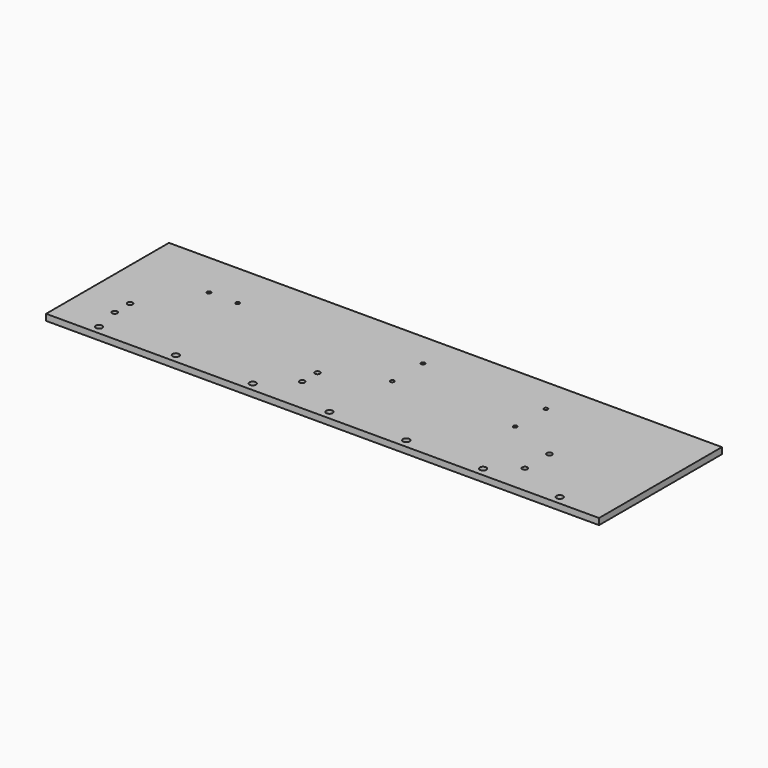
from build123d import *

# Parameters (mm, degrees)
F0_W     = 720
F0_H     = 200
F0_R     = 4.25
F0_R_2   = 3.4
F0_R_3   = 2.5
F1_DEPTH = 8.2


with BuildPart() as f1:
    # F0 (on Top) → F1 (new body)
    with BuildSketch(Plane.XY):
        with Locations((360, 100)):
            Rectangle(F0_W, F0_H)
        with Locations((60, 11.25)):
            Circle(F0_R, mode=Mode.SUBTRACT)
        with Locations((160, 11.25)):
            Circle(F0_R, mode=Mode.SUBTRACT)
        with Locations((52.6, 46)):
            Circle(F0_R_2, mode=Mode.SUBTRACT)
        with Locations((260, 11.25)):
            Circle(F0_R, mode=Mode.SUBTRACT)
        with Locations((296.6, 46)):
            Circle(F0_R_2, mode=Mode.SUBTRACT)
        with Locations((52.6, 71)):
            Circle(F0_R_2, mode=Mode.SUBTRACT)
        with Locations((296.6, 71)):
            Circle(F0_R_2, mode=Mode.SUBTRACT)
        with Locations((360, 11.25)):
            Circle(F0_R, mode=Mode.SUBTRACT)
        with Locations((460, 11.25)):
            Circle(F0_R, mode=Mode.SUBTRACT)
        with Locations((560, 11.25)):
            Circle(F0_R, mode=Mode.SUBTRACT)
        with Locations((660, 11.25)):
            Circle(F0_R, mode=Mode.SUBTRACT)
        with Locations((592.6, 38.5)):
            Circle(F0_R_2, mode=Mode.SUBTRACT)
        with Locations((592.6, 78.5)):
            Circle(F0_R_2, mode=Mode.SUBTRACT)
        with Locations((100, 140)):
            Circle(F0_R_3, mode=Mode.SUBTRACT)
        with Locations((137.5, 140)):
            Circle(F0_R_3, mode=Mode.SUBTRACT)
        with Locations((367.6, 104)):
            Circle(F0_R_3, mode=Mode.SUBTRACT)
        with Locations((527.6, 104)):
            Circle(F0_R_3, mode=Mode.SUBTRACT)
        with Locations((367.6, 154)):
            Circle(F0_R_3, mode=Mode.SUBTRACT)
        with Locations((527.6, 154)):
            Circle(F0_R_3, mode=Mode.SUBTRACT)
    extrude(amount=F1_DEPTH)


solid = f1.part
